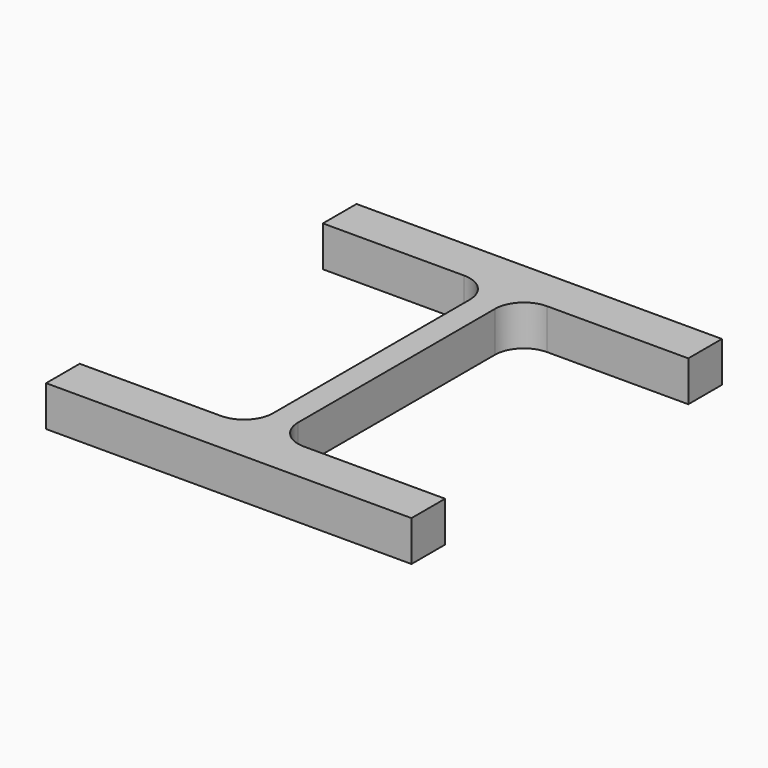
from build123d import *

# Parameters (mm, degrees)
F1_DEPTH = 25


with BuildPart() as f1:
    # F0 (on Top) → F1 (new body)
    with BuildSketch(Plane.XY):
        with BuildLine():
            Line((167.246137, 176.855819), (-58.753863, 176.855819))
            Line((-58.753863, 176.855819), (-58.753863, 150.855819))
            Line((-58.753863, 150.855819), (28.496137, 150.855819))
            ThreePointArc((28.496137, 150.855819), (41.224059, 145.583741), (46.496137, 132.855819))
            Line((46.496137, 132.855819), (46.496137, -19.144181))
            ThreePointArc((46.496137, -19.144181), (41.224059, -31.872103), (28.496137, -37.144181))
            Line((28.496137, -37.144181), (-58.753863, -37.144181))
            Line((-58.753863, -37.144181), (-58.753863, -63.144181))
            Line((-58.753863, -63.144181), (167.246137, -63.144181))
            Line((167.246137, -63.144181), (167.246137, -37.144181))
            Line((167.246137, -37.144181), (79.996137, -37.144181))
            ThreePointArc((79.996137, -37.144181), (67.268215, -31.872103), (61.996137, -19.144181))
            Line((61.996137, -19.144181), (61.996137, 132.855819))
            ThreePointArc((61.996137, 132.855819), (67.268215, 145.583741), (79.996137, 150.855819))
            Line((79.996137, 150.855819), (167.246137, 150.855819))
            Line((167.246137, 150.855819), (167.246137, 176.855819))
        make_face()
        with BuildLine():
            Line((167.246137, 176.855819), (-58.753863, 176.855819))
            Line((-58.753863, 176.855819), (-58.753863, 150.855819))
            Line((-58.753863, 150.855819), (28.496137, 150.855819))
            ThreePointArc((28.496137, 150.855819), (41.224059, 145.583741), (46.496137, 132.855819))
            Line((46.496137, 132.855819), (46.496137, -19.144181))
            ThreePointArc((46.496137, -19.144181), (41.224059, -31.872103), (28.496137, -37.144181))
            Line((28.496137, -37.144181), (-58.753863, -37.144181))
            Line((-58.753863, -37.144181), (-58.753863, -63.144181))
            Line((-58.753863, -63.144181), (167.246137, -63.144181))
            Line((167.246137, -63.144181), (167.246137, -37.144181))
            Line((167.246137, -37.144181), (79.996137, -37.144181))
            ThreePointArc((79.996137, -37.144181), (67.268215, -31.872103), (61.996137, -19.144181))
            Line((61.996137, -19.144181), (61.996137, 132.855819))
            ThreePointArc((61.996137, 132.855819), (67.268215, 145.583741), (79.996137, 150.855819))
            Line((79.996137, 150.855819), (167.246137, 150.855819))
            Line((167.246137, 150.855819), (167.246137, 176.855819))
        make_face()
    extrude(amount=F1_DEPTH)


solid = f1.part
